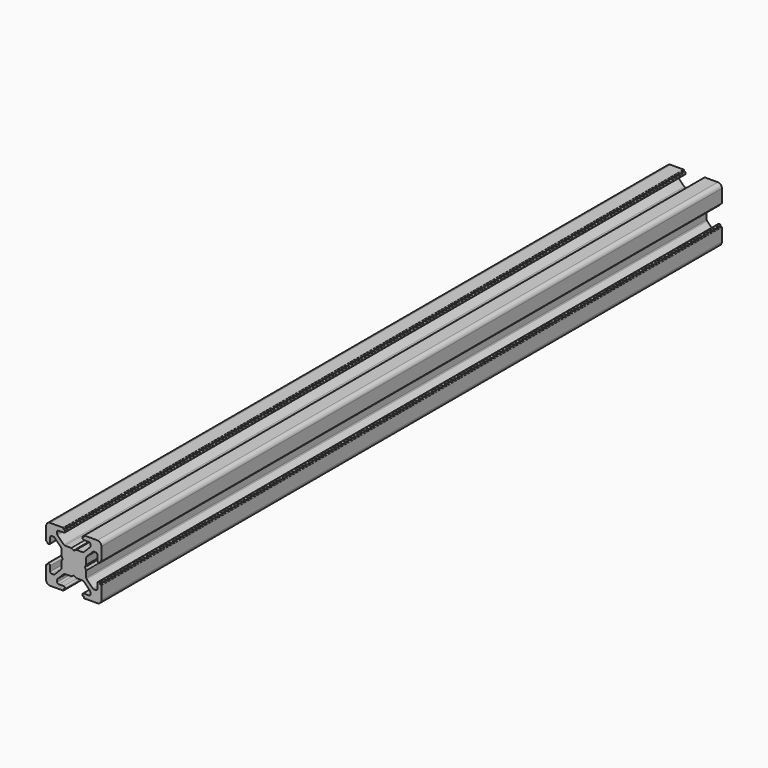
from build123d import *

# Parameters (mm, degrees)
PAD008_DEPTH    = 280
POCKET020_DEPTH = 280.001


with BuildPart() as pad008:
    # Sketch017 → Pad008 (new body)
    with BuildSketch(Plane(origin=(0, 0, -1.5), x_dir=(0, 0, -1), z_dir=(0, 1, 0))):
        with BuildLine():
            Line((0, 20), (4.65, 20))
            ThreePointArc((4.85, 19.8), (4.791421, 19.941421), (4.65, 20))
            Line((4.85, 19.8), (4.85, 19.5))
            Line((4.85, 19.5), (5.2, 19.5))
            ThreePointArc((5.4, 19.3), (5.341421, 19.441421), (5.2, 19.5))
            Line((5.4, 19.3), (5.4, 19))
            ThreePointArc((4.9, 18.5), (5.253553, 18.646446), (5.4, 19))
            Line((4.9, 18.5), (2.999999, 18.5))
            ThreePointArc((2.999999, 18.5), (2.646446, 18.353553), (2.499999, 18))
            Line((2.499999, 18), (2.499999, 17.267767))
            ThreePointArc((2.499999, 17.267767), (2.53806, 17.076425), (2.646446, 16.914213))
            Line((2.646446, 16.914213), (4.914213, 14.646447))
            ThreePointArc((4.914213, 14.646447), (5.076424, 14.53806), (5.267766, 14.5))
            Line((5.267766, 14.5), (7.54641, 14.5))
            ThreePointArc((7.64641, 14.473205), (7.598173, 14.493185), (7.54641, 14.5))
            Line((7.64641, 14.473205), (8.4, 14.03812))
            ThreePointArc((8.4, 14.03812), (8.5, 14.011325), (8.6, 14.03812))
            Line((8.6, 14.03812), (9.35359, 14.473205))
            ThreePointArc((9.45359, 14.5), (9.401827, 14.493185), (9.35359, 14.473205))
            Line((9.45359, 14.5), (11.732234, 14.5))
            ThreePointArc((11.732234, 14.5), (11.923576, 14.53806), (12.085787, 14.646447))
            Line((12.085787, 14.646447), (14.353554, 16.914213))
            ThreePointArc((14.353554, 16.914213), (14.46194, 17.076425), (14.500001, 17.267767))
            Line((14.500001, 17.267767), (14.500001, 18))
            ThreePointArc((14.500001, 18), (14.353554, 18.353553), (14.000001, 18.5))
            Line((14.000001, 18.5), (12.1, 18.5))
            ThreePointArc((11.6, 19), (11.746447, 18.646446), (12.1, 18.5))
            Line((11.6, 19), (11.6, 19.3))
            ThreePointArc((11.8, 19.5), (11.658579, 19.441421), (11.6, 19.3))
            Line((11.8, 19.5), (12.15, 19.5))
            Line((12.15, 19.5), (12.15, 19.8))
            ThreePointArc((12.35, 20), (12.208579, 19.941421), (12.15, 19.8))
            Line((12.35, 20), (17, 20))
            ThreePointArc((18.5, 18.5), (18.06066, 19.56066), (17, 20))
            Line((18.5, 18.5), (18.5, 13.85))
            ThreePointArc((18.3, 13.65), (18.441421, 13.708578), (18.5, 13.85))
            Line((18.3, 13.65), (18, 13.65))
            Line((18, 13.65), (18, 13.3))
            ThreePointArc((17.8, 13.1), (17.941421, 13.158579), (18, 13.3))
            Line((17.8, 13.1), (17.5, 13.1))
            ThreePointArc((17, 13.6), (17.146446, 13.246447), (17.5, 13.1))
            Line((17, 13.6), (17, 15.5))
            ThreePointArc((17, 15.5), (16.853553, 15.853553), (16.5, 16))
            Line((16.5, 16), (15.767767, 16))
            ThreePointArc((15.767767, 16), (15.576425, 15.961939), (15.414213, 15.853553))
            Line((15.414213, 15.853553), (13.146446, 13.585786))
            ThreePointArc((13.146446, 13.585786), (13.03806, 13.423574), (13, 13.232233))
            Line((13, 13.232233), (13, 10.953589))
            ThreePointArc((12.973205, 10.853589), (12.993185, 10.901825), (13, 10.953589))
            Line((12.973205, 10.853589), (12.53812, 10.1))
            ThreePointArc((12.53812, 10.1), (12.511325, 10), (12.53812, 9.9))
            Line((12.53812, 9.9), (12.973205, 9.146411))
            ThreePointArc((13, 9.046411), (12.993185, 9.098175), (12.973205, 9.146411))
            Line((13, 9.046411), (13, 6.767767))
            ThreePointArc((13, 6.767767), (13.03806, 6.576426), (13.146446, 6.414214))
            Line((13.146446, 6.414214), (15.414213, 4.146447))
            ThreePointArc((15.414213, 4.146447), (15.576425, 4.038061), (15.767767, 4))
            Line((15.767767, 4), (16.5, 4))
            ThreePointArc((16.5, 4), (16.853553, 4.146447), (17, 4.5))
            Line((17, 4.5), (17, 6.4))
            ThreePointArc((17.5, 6.9), (17.146446, 6.753553), (17, 6.4))
            Line((17.5, 6.9), (17.8, 6.9))
            ThreePointArc((18, 6.7), (17.941421, 6.841421), (17.8, 6.9))
            Line((18, 6.7), (18, 6.35))
            Line((18, 6.35), (18.3, 6.35))
            ThreePointArc((18.5, 6.15), (18.441421, 6.291422), (18.3, 6.35))
            Line((18.5, 6.15), (18.5, 1.5))
            ThreePointArc((17, 0), (18.06066, 0.43934), (18.5, 1.5))
            Line((17, 0), (12.35, 0))
            ThreePointArc((12.15, 0.2), (12.208579, 0.058579), (12.35, 0))
            Line((12.15, 0.2), (12.15, 0.5))
            Line((12.15, 0.5), (11.8, 0.5))
            ThreePointArc((11.6, 0.7), (11.658579, 0.558579), (11.8, 0.5))
            Line((11.6, 0.7), (11.6, 1))
            ThreePointArc((12.1, 1.5), (11.746447, 1.353554), (11.6, 1))
            Line((12.1, 1.5), (14.000001, 1.5))
            ThreePointArc((14.000001, 1.5), (14.353554, 1.646447), (14.500001, 2))
            Line((14.500001, 2), (14.500001, 2.732233))
            ThreePointArc((14.500001, 2.732233), (14.46194, 2.923575), (14.353554, 3.085787))
            Line((14.353554, 3.085787), (12.085787, 5.353553))
            ThreePointArc((12.085787, 5.353553), (11.923576, 5.46194), (11.732234, 5.5))
            Line((11.732234, 5.5), (9.45359, 5.5))
            ThreePointArc((9.35359, 5.526795), (9.401827, 5.506815), (9.45359, 5.5))
            Line((9.35359, 5.526795), (8.6, 5.96188))
            ThreePointArc((8.6, 5.96188), (8.5, 5.988675), (8.4, 5.96188))
            Line((8.4, 5.96188), (7.64641, 5.526795))
            ThreePointArc((7.54641, 5.5), (7.598173, 5.506815), (7.64641, 5.526795))
            Line((7.54641, 5.5), (5.267766, 5.5))
            ThreePointArc((5.267766, 5.5), (5.076424, 5.46194), (4.914213, 5.353553))
            Line((4.914213, 5.353553), (2.646446, 3.085787))
            ThreePointArc((2.646446, 3.085787), (2.53806, 2.923575), (2.499999, 2.732233))
            Line((2.499999, 2.732233), (2.499999, 2))
            ThreePointArc((2.499999, 2), (2.646446, 1.646447), (2.999999, 1.5))
            Line((2.999999, 1.5), (4.9, 1.5))
            ThreePointArc((5.4, 1), (5.253553, 1.353554), (4.9, 1.5))
            Line((5.4, 1), (5.4, 0.7))
            ThreePointArc((5.2, 0.5), (5.341421, 0.558579), (5.4, 0.7))
            Line((5.2, 0.5), (4.85, 0.5))
            Line((4.85, 0.5), (4.85, 0.2))
            ThreePointArc((4.65, 0), (4.791421, 0.058579), (4.85, 0.2))
            Line((4.65, 0), (0, 0))
            ThreePointArc((-1.5, 1.5), (-1.06066, 0.43934), (0, 0))
            Line((-1.5, 1.5), (-1.5, 6.15))
            ThreePointArc((-1.3, 6.35), (-1.441421, 6.291422), (-1.5, 6.15))
            Line((-1.3, 6.35), (-1, 6.35))
            Line((-1, 6.35), (-1, 6.7))
            ThreePointArc((-0.8, 6.9), (-0.941421, 6.841421), (-1, 6.7))
            Line((-0.8, 6.9), (-0.5, 6.9))
            ThreePointArc((0, 6.4), (-0.146446, 6.753553), (-0.5, 6.9))
            Line((0, 6.4), (0, 4.5))
            ThreePointArc((0, 4.5), (0.146447, 4.146447), (0.5, 4))
            Line((0.5, 4), (1.232233, 4))
            ThreePointArc((1.232233, 4), (1.423575, 4.038061), (1.585787, 4.146447))
            Line((1.585787, 4.146447), (3.853554, 6.414214))
            ThreePointArc((3.853554, 6.414214), (3.96194, 6.576426), (4, 6.767767))
            Line((4, 6.767767), (4, 9.046411))
            ThreePointArc((4.026795, 9.146411), (4.006815, 9.098175), (4, 9.046411))
            Line((4.026795, 9.146411), (4.46188, 9.9))
            ThreePointArc((4.46188, 9.9), (4.488675, 10), (4.46188, 10.1))
            Line((4.46188, 10.1), (4.026795, 10.853589))
            ThreePointArc((4, 10.953589), (4.006815, 10.901825), (4.026795, 10.853589))
            Line((4, 10.953589), (4, 13.232233))
            ThreePointArc((4, 13.232233), (3.96194, 13.423574), (3.853554, 13.585786))
            Line((3.853554, 13.585786), (1.585787, 15.853553))
            ThreePointArc((1.585787, 15.853553), (1.423575, 15.961939), (1.232233, 16))
            Line((1.232233, 16), (0.5, 16))
            ThreePointArc((0.5, 16), (0.146447, 15.853553), (0, 15.5))
            Line((0, 15.5), (0, 13.6))
            ThreePointArc((-0.5, 13.1), (-0.146446, 13.246447), (0, 13.6))
            Line((-0.5, 13.1), (-0.8, 13.1))
            ThreePointArc((-1, 13.3), (-0.941421, 13.158579), (-0.8, 13.1))
            Line((-1, 13.3), (-1, 13.65))
            Line((-1, 13.65), (-1.3, 13.65))
            ThreePointArc((-1.5, 13.85), (-1.441421, 13.708578), (-1.3, 13.65))
            Line((-1.5, 13.85), (-1.5, 18.5))
            ThreePointArc((0, 20), (-1.06066, 19.56066), (-1.5, 18.5))
        make_face()
    extrude(amount=PAD008_DEPTH)


with BuildPart() as fusion010:
    # Pocket020 base: copy of Pad008
    add(pad008.part)

    # Sketch018 → Pocket020 (cut, through all)
    with BuildSketch(Plane(origin=(0, 280, -1.5), x_dir=(0, 0, -1), z_dir=(0, 1, 0))):
        with BuildLine():
            ThreePointArc((6.586105, 12.989641), (5.988263, 12.50841), (5.507825, 11.909931))
            Line((6.054705, 11.258185), (5.507825, 11.909931))
            ThreePointArc((6.054705, 11.258185), (5.75, 10), (6.054705, 8.741815))
            Line((5.507825, 8.090069), (6.054705, 8.741815))
            ThreePointArc((5.507825, 8.090069), (5.988263, 7.49159), (6.586105, 7.010359))
            Line((7.241815, 7.554705), (6.586105, 7.010359))
            ThreePointArc((7.241815, 7.554705), (8.5, 7.25), (9.758185, 7.554705))
            Line((10.413895, 7.010359), (9.758185, 7.554705))
            ThreePointArc((10.413895, 7.010359), (11.011737, 7.49159), (11.492175, 8.090069))
            Line((10.945295, 8.741815), (11.492175, 8.090069))
            ThreePointArc((10.945295, 8.741815), (11.25, 10), (10.945295, 11.258185))
            Line((11.492175, 11.909931), (10.945295, 11.258185))
            ThreePointArc((11.492175, 11.909931), (11.011737, 12.50841), (10.413895, 12.989641))
            Line((9.758185, 12.445295), (10.413895, 12.989641))
            ThreePointArc((9.758185, 12.445295), (8.5, 12.75), (7.241815, 12.445295))
            Line((6.586105, 12.989641), (7.241815, 12.445295))
        make_face()
    extrude(amount=-POCKET020_DEPTH, mode=Mode.SUBTRACT)

    # Fusion010: union Pad008
    add(pad008.part)


with BuildPart() as fusion010_1:
    # Fusion010 placement: moved
    add(fusion010.part.moved(Location((217, -156, -510))))


solid = fusion010_1.part
